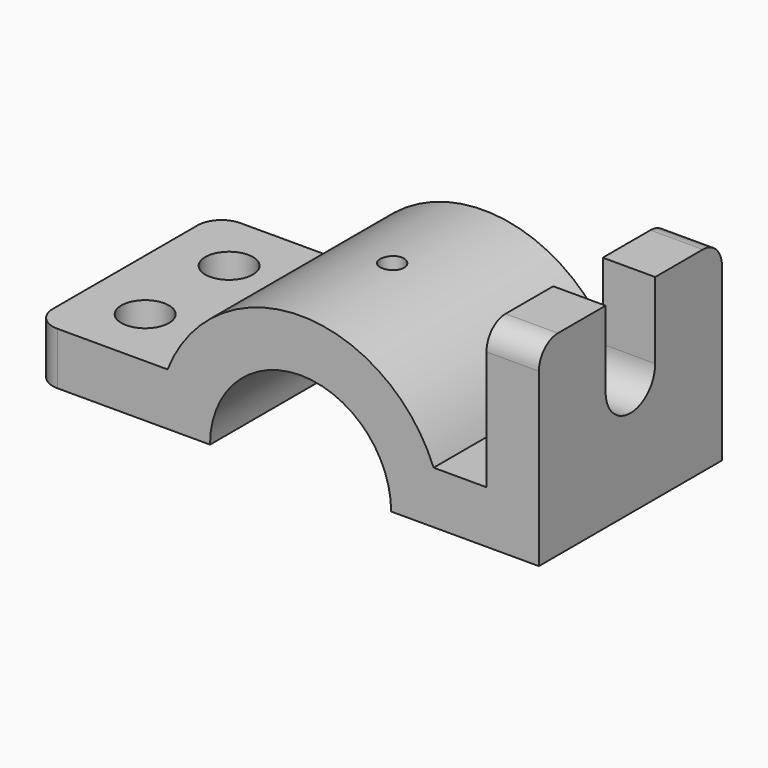
from build123d import *

# Parameters (mm, degrees)
F1_DEPTH  = 48
F2_R      = 5
F3_R      = 5
F5_DEPTH  = 11
F6_R      = 5
F7_R      = 5
F8_R      = 5
F9_DEPTH  = 11
F11_R     = 2.5
F12_DEPTH = 11.1661918982


with BuildPart() as f1:
    # F0 (on Front) → F1 (new body)
    with BuildSketch(Plane.XZ):
        with BuildLine():
            ThreePointArc((-19, 0), (0, 19), (19, 0))
            Line((19, 0), (30, 0))
            Line((30, 0), (50, 0))
            Line((50, 0), (50, 41))
            Line((50, 41), (39, 41))
            Line((39, 41), (39, 11))
            Line((39, 11), (27.9105714739, 11))
            ThreePointArc((27.9105714739, 11), (0, 30), (-27.9105714739, 11))
            Line((-27.9105714739, 11), (-56, 11))
            Line((-56, 11), (-56, 0))
            Line((-56, 0), (-30, 0))
            Line((-30, 0), (-19, 0))
        make_face()
        with BuildLine():
            ThreePointArc((-19, 0), (0, 19), (19, 0))
            Line((19, 0), (30, 0))
            Line((30, 0), (50, 0))
            Line((50, 0), (50, 41))
            Line((50, 41), (39, 41))
            Line((39, 41), (39, 11))
            Line((39, 11), (27.9105714739, 11))
            ThreePointArc((27.9105714739, 11), (0, 30), (-27.9105714739, 11))
            Line((-27.9105714739, 11), (-56, 11))
            Line((-56, 11), (-56, 0))
            Line((-56, 0), (-30, 0))
            Line((-30, 0), (-19, 0))
        make_face()
        with BuildLine():
            ThreePointArc((-19, 0), (0, 19), (19, 0))
            Line((19, 0), (30, 0))
            Line((30, 0), (50, 0))
            Line((50, 0), (50, 41))
            Line((50, 41), (39, 41))
            Line((39, 41), (39, 11))
            Line((39, 11), (27.9105714739, 11))
            ThreePointArc((27.9105714739, 11), (0, 30), (-27.9105714739, 11))
            Line((-27.9105714739, 11), (-56, 11))
            Line((-56, 11), (-56, 0))
            Line((-56, 0), (-30, 0))
            Line((-30, 0), (-19, 0))
        make_face()
    extrude(amount=F1_DEPTH)

    # F2
    f2_edges = [f1.edges().sort_by_distance(p)[0] for p in [
        (44.5, -48, 41),
    ]]
    fillet(f2_edges, radius=F2_R)

    # F3
    f3_edges = [f1.edges().sort_by_distance(p)[0] for p in [
        (44.5, 0, 41),
    ]]
    fillet(f3_edges, radius=F3_R)

    # F4 (on face) → F5 (cut, through all)
    with BuildSketch(Plane.YZ.offset(50)):
        with BuildLine():
            Line((-17.5, 25), (-17.5, 41))
            Line((-17.5, 41), (-30.5, 41))
            Line((-30.5, 41), (-30.5, 25))
            ThreePointArc((-30.5, 25), (-24, 18.5), (-17.5, 25))
        make_face()
    extrude(amount=-F5_DEPTH, mode=Mode.SUBTRACT)

    # F6
    f6_edges = [f1.edges().sort_by_distance(p)[0] for p in [
        (-56, -48, 5.5),
    ]]
    fillet(f6_edges, radius=F6_R)

    # F7
    f7_edges = [f1.edges().sort_by_distance(p)[0] for p in [
        (-56, 0, 5.5),
    ]]
    fillet(f7_edges, radius=F7_R)

    # F8 (on face) → F9 (cut, through all)
    with BuildSketch(Plane.XY.offset(11)):
        with Locations((-43, -13)):
            Circle(F8_R)
        with Locations((-43, -35)):
            Circle(F8_R)
    extrude(amount=-F9_DEPTH, mode=Mode.SUBTRACT)

    # F11 (on offset) → F12 (cut, through all)
    with BuildSketch(Plane.XY.offset(30)):
        with Locations((0, -24)):
            Circle(F11_R)
    extrude(amount=-F12_DEPTH, mode=Mode.SUBTRACT)


solid = f1.part
